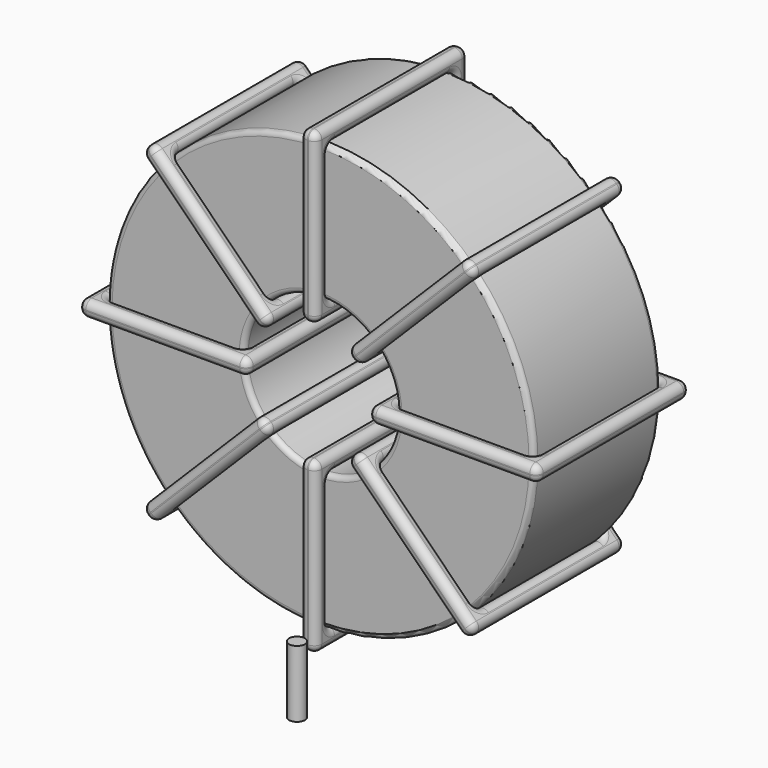
from build123d import *

# Parameters (mm, degrees)
SKETCH001_R       = 0.8
PAD001_DEPTH      = 1.6
PAD001_DEPTH_BACK = 5.1
SKETCH_R          = 21.4
SKETCH_R_2        = 7.666667
PAD_DEPTH         = 7.95
FILLET_R          = 0.5
SKETCH003_W       = 16.933333
SKETCH003_H       = 19.1
SKETCH003_W_2     = 13.733333
SKETCH003_H_2     = 15.9
PAD002_DEPTH      = 0.8
FILLET001_R       = 0.752
SKETCH004_W       = 16.933333
SKETCH004_H       = 19.1
SKETCH004_W_2     = 13.733333
SKETCH004_H_2     = 15.9
PAD003_DEPTH      = 0.8
FILLET002_R       = 0.752
SKETCH005_W       = 16.933333
SKETCH005_H       = 19.1
SKETCH005_W_2     = 13.733333
SKETCH005_H_2     = 15.9
PAD004_DEPTH      = 0.8
FILLET003_R       = 0.752
SKETCH006_W       = 16.933333
SKETCH006_H       = 19.1
SKETCH006_W_2     = 13.733333
SKETCH006_H_2     = 15.9
PAD005_DEPTH      = 0.8
FILLET004_R       = 0.752


with BuildPart() as pad001:
    # Sketch001 → Pad001 (new body, two sides)
    with BuildSketch(Plane.XY.offset(2.1)) as pad001_sk:
        Circle(SKETCH001_R)
        with Locations((0, -21.8)):
            Circle(SKETCH001_R)
    extrude(amount=PAD001_DEPTH)
    extrude(pad001_sk.sketch, amount=-PAD001_DEPTH_BACK)


with BuildPart() as fillet_body:
    # Sketch → Pad (new body, symmetric)
    with BuildSketch(Plane.XZ.offset(10.9)):
        with Locations((0, 25.1)):
            Circle(SKETCH_R)
        with Locations((0, 25.1)):
            Circle(SKETCH_R_2, mode=Mode.SUBTRACT)
    extrude(amount=PAD_DEPTH, both=True)

    # Fillet
    fillet_edges = [fillet_body.edges().sort_by_distance(p)[0] for p in [
        (-7.666667, -18.85, 25.1),
        (-21.4, -18.85, 25.1),
        (-21.4, -2.95, 25.1),
    ]]
    fillet(fillet_edges, radius=FILLET_R)


with BuildPart() as fillet001:
    # Sketch003 → Pad002 (new body, symmetric)
    with BuildSketch(Plane(origin=(0, -1.35, 25.1), x_dir=(1, 0, 0), z_dir=(0, 0, -1))):
        with Locations((-14.533333, 9.55)):
            Rectangle(SKETCH003_W, SKETCH003_H)
        with Locations((-14.533333, 9.55)):
            Rectangle(SKETCH003_W_2, SKETCH003_H_2, mode=Mode.SUBTRACT)
        with Locations((14.533333, 9.55)):
            Rectangle(SKETCH003_W, SKETCH003_H)
        with Locations((14.533333, 9.55)):
            Rectangle(SKETCH003_W_2, SKETCH003_H_2, mode=Mode.SUBTRACT)
    extrude(amount=PAD002_DEPTH, both=True)

    # Fillet001
    fillet001_edges = [fillet001.edges().sort_by_distance(p)[0] for p in [
        (-7.666667, -18.85, 25.1),
        (-7.666667, -2.95, 25.1),
        (-7.666667, -10.9, 25.9),
        (-7.666667, -10.9, 24.3),
        (-23, -20.45, 25.1),
        (-6.066667, -20.45, 25.1),
        (-14.533333, -20.45, 25.9),
        (-14.533333, -20.45, 24.3),
        (-6.066667, -1.35, 25.1),
        (-6.066667, -10.9, 25.9),
        (-6.066667, -10.9, 24.3),
        (7.666667, -18.85, 25.1),
        (21.4, -18.85, 25.1),
        (14.533333, -18.85, 25.9),
        (14.533333, -18.85, 24.3),
        (21.4, -2.95, 25.1),
        (21.4, -10.9, 25.9),
        (21.4, -10.9, 24.3),
        (6.066667, -20.45, 25.1),
        (23, -20.45, 25.1),
        (14.533333, -20.45, 25.9),
        (14.533333, -20.45, 24.3),
        (23, -1.35, 25.1),
        (23, -10.9, 25.9),
        (23, -10.9, 24.3),
        (-21.4, -18.85, 25.1),
        (-14.533333, -18.85, 25.9),
        (-14.533333, -18.85, 24.3),
        (7.666667, -2.95, 25.1),
        (7.666667, -10.9, 25.9),
        (7.666667, -10.9, 24.3),
        (14.533333, -2.95, 25.9),
        (14.533333, -2.95, 24.3),
        (6.066667, -1.35, 25.1),
        (14.533333, -1.35, 25.9),
        (14.533333, -1.35, 24.3),
        (6.066667, -10.9, 25.9),
        (6.066667, -10.9, 24.3),
        (-23, -1.35, 25.1),
        (-14.533333, -1.35, 25.9),
        (-14.533333, -1.35, 24.3),
        (-23, -10.9, 25.9),
        (-23, -10.9, 24.3),
        (-21.4, -2.95, 25.1),
        (-21.4, -10.9, 25.9),
        (-21.4, -10.9, 24.3),
        (-14.533333, -2.95, 25.9),
        (-14.533333, -2.95, 24.3),
    ]]
    fillet(fillet001_edges, radius=FILLET001_R)


with BuildPart() as fillet002:
    # Sketch004 → Pad003 (new body, symmetric)
    with BuildSketch(Plane(origin=(0, -1.35, 25.1), x_dir=(0.707108, 0, 0.707106), z_dir=(0.707106, 0, -0.707108))):
        with Locations((-14.533333, 9.55)):
            Rectangle(SKETCH004_W, SKETCH004_H)
        with Locations((-14.533333, 9.55)):
            Rectangle(SKETCH004_W_2, SKETCH004_H_2, mode=Mode.SUBTRACT)
        with Locations((14.533333, 9.55)):
            Rectangle(SKETCH004_W, SKETCH004_H)
        with Locations((14.533333, 9.55)):
            Rectangle(SKETCH004_W_2, SKETCH004_H_2, mode=Mode.SUBTRACT)
    extrude(amount=PAD003_DEPTH, both=True)

    # Fillet002
    fillet002_edges = [fillet002.edges().sort_by_distance(p)[0] for p in [
        (-5.421158, -18.85, 19.678854),
        (-5.421158, -2.95, 19.678854),
        (-5.986843, -10.9, 20.24454),
        (-4.855473, -10.9, 19.113168),
        (-16.263475, -20.45, 8.836563),
        (-16.263475, -1.35, 8.836563),
        (-16.82916, -10.9, 9.402249),
        (-15.69779, -10.9, 8.270877),
        (-4.289786, -20.45, 20.810224),
        (-10.842315, -1.35, 15.389079),
        (-9.710946, -1.35, 14.257707),
        (5.421158, -18.85, 30.521146),
        (15.132103, -18.85, 40.232068),
        (9.710946, -18.85, 35.942293),
        (10.842315, -18.85, 34.810921),
        (15.132103, -2.95, 40.232068),
        (14.566418, -10.9, 40.797754),
        (15.697787, -10.9, 39.666382),
        (4.289786, -20.45, 29.389776),
        (16.263475, -20.45, 41.363437),
        (9.710946, -20.45, 35.942293),
        (10.842315, -20.45, 34.810921),
        (16.263475, -1.35, 41.363437),
        (15.69779, -10.9, 41.929123),
        (16.82916, -10.9, 40.797751),
        (-15.132103, -18.85, 9.967932),
        (-10.842315, -18.85, 15.389079),
        (-9.710946, -18.85, 14.257707),
        (5.421158, -2.95, 30.521146),
        (4.855473, -10.9, 31.086832),
        (5.986843, -10.9, 29.95546),
        (9.710946, -2.95, 35.942293),
        (10.842315, -2.95, 34.810921),
        (4.289786, -1.35, 29.389776),
        (9.710946, -1.35, 35.942293),
        (10.842315, -1.35, 34.810921),
        (3.724101, -10.9, 29.955462),
        (4.855471, -10.9, 28.82409),
        (-4.289786, -1.35, 20.810224),
        (-4.855471, -10.9, 21.37591),
        (-3.724101, -10.9, 20.244538),
        (-10.842315, -20.45, 15.389079),
        (-9.710946, -20.45, 14.257707),
        (-15.132103, -2.95, 9.967932),
        (-15.697787, -10.9, 10.533618),
        (-14.566418, -10.9, 9.402246),
        (-10.842315, -2.95, 15.389079),
        (-9.710946, -2.95, 14.257707),
    ]]
    fillet(fillet002_edges, radius=FILLET002_R)


with BuildPart() as fillet003:
    # Sketch005 → Pad004 (new body, symmetric)
    with BuildSketch(Plane(origin=(0, -1.35, 25.1), x_dir=(0.707108, 0, -0.707106), z_dir=(-0.707106, 0, -0.707108))):
        with Locations((-14.533333, 9.55)):
            Rectangle(SKETCH005_W, SKETCH005_H)
        with Locations((-14.533333, 9.55)):
            Rectangle(SKETCH005_W_2, SKETCH005_H_2, mode=Mode.SUBTRACT)
        with Locations((14.533333, 9.55)):
            Rectangle(SKETCH005_W, SKETCH005_H)
        with Locations((14.533333, 9.55)):
            Rectangle(SKETCH005_W_2, SKETCH005_H_2, mode=Mode.SUBTRACT)
    extrude(amount=PAD004_DEPTH, both=True)

    # Fillet003
    fillet003_edges = [fillet003.edges().sort_by_distance(p)[0] for p in [
        (-5.421158, -18.85, 30.521146),
        (-5.421158, -2.95, 30.521146),
        (-4.855473, -10.9, 31.086832),
        (-5.986843, -10.9, 29.95546),
        (-16.263475, -20.45, 41.363437),
        (-16.263475, -1.35, 41.363437),
        (-15.69779, -10.9, 41.929123),
        (-16.82916, -10.9, 40.797751),
        (-4.289786, -20.45, 29.389776),
        (-9.710946, -1.35, 35.942293),
        (-10.842315, -1.35, 34.810921),
        (5.421158, -18.85, 19.678854),
        (15.132103, -18.85, 9.967932),
        (10.842315, -18.85, 15.389079),
        (9.710946, -18.85, 14.257707),
        (15.132103, -2.95, 9.967932),
        (15.697787, -10.9, 10.533618),
        (14.566418, -10.9, 9.402246),
        (4.289786, -1.35, 20.810224),
        (4.289786, -20.45, 20.810224),
        (4.855471, -10.9, 21.37591),
        (3.724101, -10.9, 20.244538),
        (16.263475, -1.35, 8.836563),
        (10.842315, -1.35, 15.389079),
        (9.710946, -1.35, 14.257707),
        (-15.132103, -18.85, 40.232068),
        (-9.710946, -18.85, 35.942293),
        (-10.842315, -18.85, 34.810921),
        (5.421158, -2.95, 19.678854),
        (5.986843, -10.9, 20.24454),
        (4.855473, -10.9, 19.113168),
        (10.842315, -2.95, 15.389079),
        (9.710946, -2.95, 14.257707),
        (16.263475, -20.45, 8.836563),
        (16.82916, -10.9, 9.402249),
        (15.69779, -10.9, 8.270877),
        (10.842315, -20.45, 15.389079),
        (9.710946, -20.45, 14.257707),
        (-4.289786, -1.35, 29.389776),
        (-3.724101, -10.9, 29.955462),
        (-4.855471, -10.9, 28.82409),
        (-9.710946, -20.45, 35.942293),
        (-10.842315, -20.45, 34.810921),
        (-15.132103, -2.95, 40.232068),
        (-14.566418, -10.9, 40.797754),
        (-15.697787, -10.9, 39.666382),
        (-9.710946, -2.95, 35.942293),
        (-10.842315, -2.95, 34.810921),
    ]]
    fillet(fillet003_edges, radius=FILLET003_R)


with BuildPart() as fillet004:
    # Sketch006 → Pad005 (new body, symmetric)
    with BuildSketch(Plane(origin=(0, -1.35, 25.1), x_dir=(0, 0, 1), z_dir=(1, 0, 0))):
        with Locations((-14.533333, 9.55)):
            Rectangle(SKETCH006_W, SKETCH006_H)
        with Locations((-14.533333, 9.55)):
            Rectangle(SKETCH006_W_2, SKETCH006_H_2, mode=Mode.SUBTRACT)
        with Locations((14.533333, 9.55)):
            Rectangle(SKETCH006_W, SKETCH006_H)
        with Locations((14.533333, 9.55)):
            Rectangle(SKETCH006_W_2, SKETCH006_H_2, mode=Mode.SUBTRACT)
    extrude(amount=PAD005_DEPTH, both=True)

    # Fillet004
    fillet004_edges = [fillet004.edges().sort_by_distance(p)[0] for p in [
        (0, -18.85, 17.433333),
        (0, -2.95, 17.433333),
        (-0.8, -10.9, 17.433333),
        (0.8, -10.9, 17.433333),
        (0, -20.45, 2.1),
        (0, -20.45, 19.033333),
        (-0.8, -20.45, 10.566667),
        (0.8, -20.45, 10.566667),
        (0, -1.35, 19.033333),
        (-0.8, -10.9, 19.033333),
        (0.8, -10.9, 19.033333),
        (0, -18.85, 32.766667),
        (0, -18.85, 46.5),
        (-0.8, -18.85, 39.633333),
        (0.8, -18.85, 39.633333),
        (0, -2.95, 46.5),
        (-0.8, -10.9, 46.5),
        (0.8, -10.9, 46.5),
        (0, -20.45, 31.166667),
        (0, -20.45, 48.1),
        (-0.8, -20.45, 39.633333),
        (0.8, -20.45, 39.633333),
        (0, -1.35, 48.1),
        (-0.8, -10.9, 48.1),
        (0.8, -10.9, 48.1),
        (0, -18.85, 3.7),
        (-0.8, -18.85, 10.566667),
        (0.8, -18.85, 10.566667),
        (0, -2.95, 32.766667),
        (-0.8, -10.9, 32.766667),
        (0.8, -10.9, 32.766667),
        (-0.8, -2.95, 39.633333),
        (0.8, -2.95, 39.633333),
        (0, -1.35, 31.166667),
        (-0.8, -1.35, 39.633333),
        (0.8, -1.35, 39.633333),
        (-0.8, -10.9, 31.166667),
        (0.8, -10.9, 31.166667),
        (0, -1.35, 2.1),
        (-0.8, -1.35, 10.566667),
        (0.8, -1.35, 10.566667),
        (-0.8, -10.9, 2.1),
        (0.8, -10.9, 2.1),
        (0, -2.95, 3.7),
        (-0.8, -10.9, 3.7),
        (0.8, -10.9, 3.7),
        (-0.8, -2.95, 10.566667),
        (0.8, -2.95, 10.566667),
    ]]
    fillet(fillet004_edges, radius=FILLET004_R)


solid = Compound([pad001.part, fillet_body.part, fillet001.part, fillet002.part, fillet003.part, fillet004.part])
